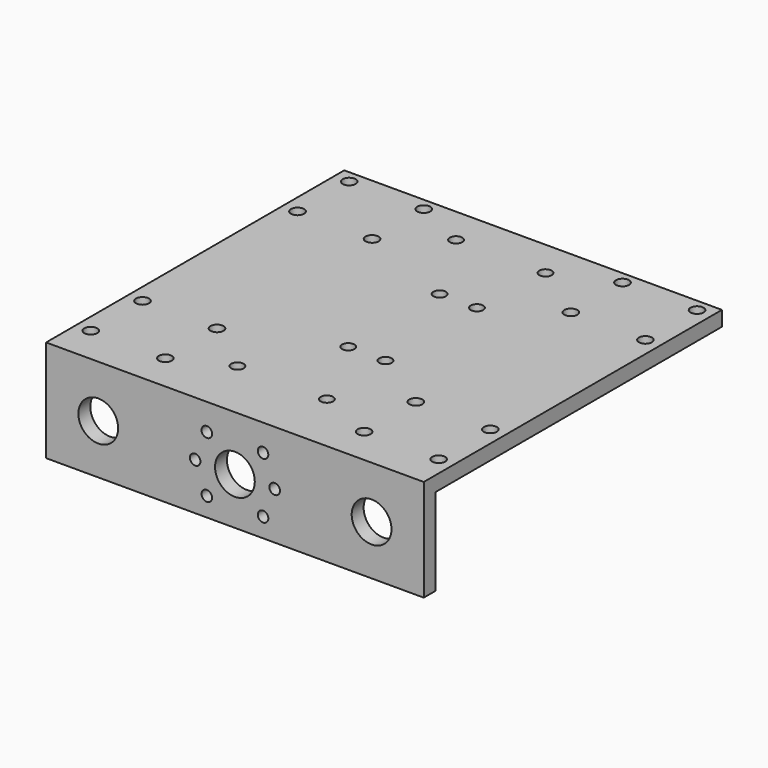
from build123d import *

# Parameters (mm, degrees)
SKETCH_W      = 152
SKETCH_H      = 150
SKETCH_R      = 2.5
SKETCH_R_2    = 2.625
PAD_DEPTH     = 6
SKETCH001_W   = 152
SKETCH001_H   = 41
SKETCH001_R   = 8
SKETCH001_R_2 = 2.125
PAD001_DEPTH  = 6


with BuildPart() as part:
    # Sketch → Pad (new body)
    with BuildSketch(Plane.XY):
        with Locations((0, -5)):
            Rectangle(SKETCH_W, SKETCH_H)
        with Locations((-19, 55)):
            Circle(SKETCH_R, mode=Mode.SUBTRACT)
        with Locations((17, 55)):
            Circle(SKETCH_R, mode=Mode.SUBTRACT)
        with Locations((-19, -55)):
            Circle(SKETCH_R, mode=Mode.SUBTRACT)
        with Locations((17, -55)):
            Circle(SKETCH_R, mode=Mode.SUBTRACT)
        with Locations((-70, 65)):
            Circle(SKETCH_R_2, mode=Mode.SUBTRACT)
        with Locations((-40, 65)):
            Circle(SKETCH_R_2, mode=Mode.SUBTRACT)
        with Locations((-70, 39)):
            Circle(SKETCH_R_2, mode=Mode.SUBTRACT)
        with Locations((-40, 39)):
            Circle(SKETCH_R_2, mode=Mode.SUBTRACT)
        with Locations((-70, -39)):
            Circle(SKETCH_R_2, mode=Mode.SUBTRACT)
        with Locations((-40, -39)):
            Circle(SKETCH_R_2, mode=Mode.SUBTRACT)
        with Locations((-70, -65)):
            Circle(SKETCH_R_2, mode=Mode.SUBTRACT)
        with Locations((-40, -65)):
            Circle(SKETCH_R_2, mode=Mode.SUBTRACT)
        with Locations((40, 65)):
            Circle(SKETCH_R_2, mode=Mode.SUBTRACT)
        with Locations((70, 65)):
            Circle(SKETCH_R_2, mode=Mode.SUBTRACT)
        with Locations((40, 39)):
            Circle(SKETCH_R_2, mode=Mode.SUBTRACT)
        with Locations((40, -39)):
            Circle(SKETCH_R_2, mode=Mode.SUBTRACT)
        with Locations((40, -65)):
            Circle(SKETCH_R_2, mode=Mode.SUBTRACT)
        with Locations((70, -39)):
            Circle(SKETCH_R_2, mode=Mode.SUBTRACT)
        with Locations((70, -65)):
            Circle(SKETCH_R_2, mode=Mode.SUBTRACT)
        with Locations((0, 23)):
            Circle(SKETCH_R, mode=Mode.SUBTRACT)
        with Locations((15, 23)):
            Circle(SKETCH_R, mode=Mode.SUBTRACT)
        with Locations((0, -23)):
            Circle(SKETCH_R, mode=Mode.SUBTRACT)
        with Locations((15, -23)):
            Circle(SKETCH_R, mode=Mode.SUBTRACT)
        with Locations((70, 39)):
            Circle(SKETCH_R_2, mode=Mode.SUBTRACT)
    extrude(amount=PAD_DEPTH)

    # Sketch001 → Pad001 (new body)
    with BuildSketch(Plane.XZ.offset(80)):
        with Locations((0, -14.5)):
            Rectangle(SKETCH001_W, SKETCH001_H)
        with Locations((0, -16)):
            Circle(SKETCH001_R, mode=Mode.SUBTRACT)
        with Locations((-11.313708, -4.686292)):
            Circle(SKETCH001_R_2, mode=Mode.SUBTRACT)
        with Locations((-16, -16)):
            Circle(SKETCH001_R_2, mode=Mode.SUBTRACT)
        with Locations((11.313708, -4.686292)):
            Circle(SKETCH001_R_2, mode=Mode.SUBTRACT)
        with Locations((-11.313708, -27.313708)):
            Circle(SKETCH001_R_2, mode=Mode.SUBTRACT)
        with Locations((11.313708, -27.313708)):
            Circle(SKETCH001_R_2, mode=Mode.SUBTRACT)
        with Locations((16, -16)):
            Circle(SKETCH001_R_2, mode=Mode.SUBTRACT)
        with Locations((-55, -15)):
            Circle(SKETCH001_R, mode=Mode.SUBTRACT)
        with Locations((55, -15)):
            Circle(SKETCH001_R, mode=Mode.SUBTRACT)
    extrude(amount=-PAD001_DEPTH)


solid = part.part
